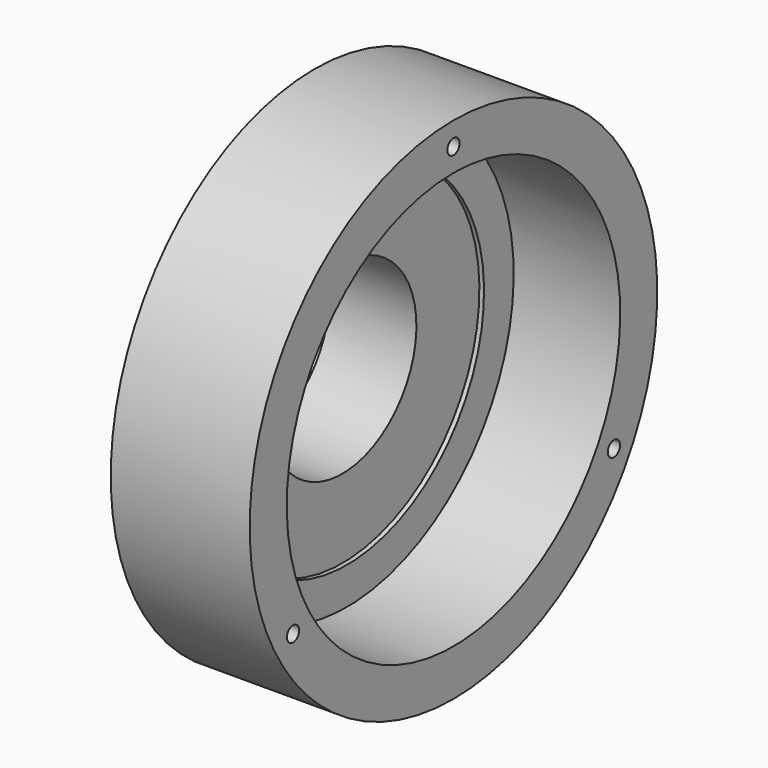
from build123d import *

# Parameters (mm, degrees)
F3_D     = 3.3
F3_DEPTH = 14.1
F3_TIP   = 0.9914200214


with BuildPart() as f1:
    # F0 (on Front) → F1 (revolve)
    with BuildSketch(Plane.XZ):
        Polygon((12.7, 30), (0, 30), (0, 20), (18.7, 20), (18.7, 37), (19.7, 37), (19.7, 45), (42.7, 45), (42.7, 55), (12.7, 55), align=None)
    revolve(axis=Axis((9.35, 0, 0), (-1, 0, 0)))

    # F3
    with Locations(Plane.YZ.offset(42.7)):
        with Locations((43.3012701892, -25), (-43.3012701892, -25), (0, 50)):
            Hole(F3_D / 2, depth=F3_DEPTH)
            with Locations((0, 0, -(F3_DEPTH + F3_TIP / 2))):  # 118° drill point
                Cone(0, F3_D / 2, F3_TIP, mode=Mode.SUBTRACT)


solid = f1.part
